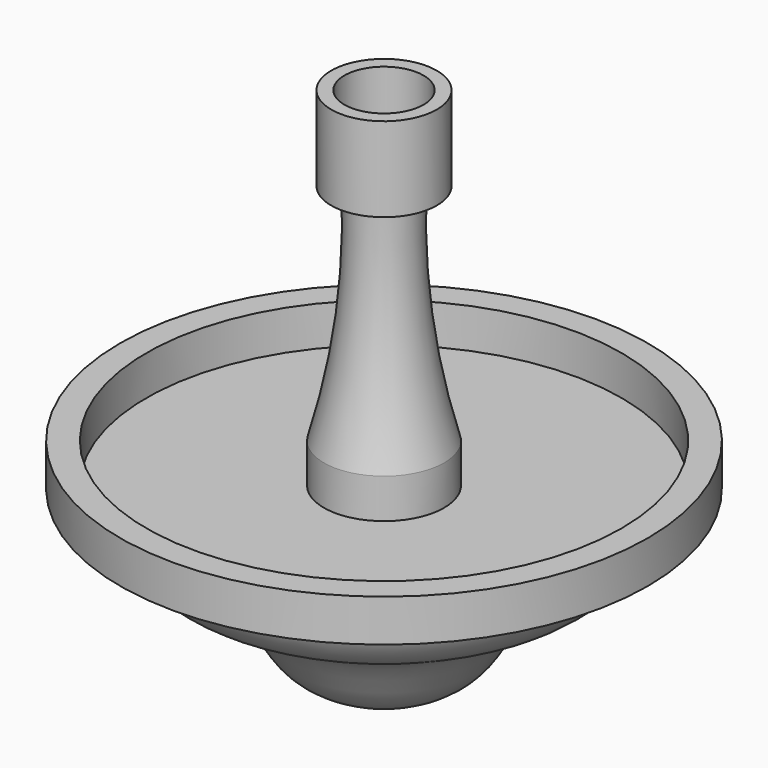
from build123d import *

# Parameters (mm, degrees)
F2_R     = 4.7625
F3_DEPTH = 9.525
F4_R     = 28.575
F4_R_2   = 7.2307717055
F5_DEPTH = 4.7625
F7_R     = 1.5748
F8_DEPTH = 12.7


with BuildPart() as f1:
    # F0 (on Front) → F1 (revolve)
    with BuildSketch(Plane.XZ):
        with BuildLine():
            Line((6.35, 30.6578), (0, 30.6578))
            Line((0, 30.6578), (0, -32.8422))
            add(Edge.make_bspline(
                [(26.6617717055, -11.54401084), (25.9700992248, -13.9315858764), (24.3509477459, -18.9185989779), (13.5455112354, -21.3365708537), (11.0916920313, -30.0749376041), (4.3225063677, -32.7455812088), (0, -32.8422)],
                knots=[0, 0, 0, 0, 0.2244865459, 0.4859344501, 0.7233610009, 1, 1, 1, 1], degree=3))
            Line((26.6617717055, -11.54401084), (31.7417717055, -11.54401084))
            Line((31.7417717055, -11.54401084), (31.7417717055, -6.46401084))
            Line((31.7417717055, -6.46401084), (7.2307717055, -6.46401084))
            ThreePointArc((7.2307717055, -6.46401084), (4.5421623899, 6.8879276474), (4.018467851, 20.4978))
            Line((4.018467851, 20.4978), (6.35, 20.4978))
            Line((6.35, 20.4978), (6.35, 30.6578))
        make_face()
    revolve(axis=Axis((0, 0, -1.0922), (0, 0, -1)))

    # F2 (on face) → F3 (cut)
    with BuildSketch(Plane.XY.offset(30.6578)):
        Circle(F2_R)
    extrude(amount=-F3_DEPTH, mode=Mode.SUBTRACT)

    # F4 (on face) → F5 (cut)
    with BuildSketch(Plane.XY.offset(-6.46401084)):
        Circle(F4_R)
        Circle(F4_R_2, mode=Mode.SUBTRACT)
    extrude(amount=-F5_DEPTH, mode=Mode.SUBTRACT)

    # F7 (on offset) → F8 (cut)
    with BuildSketch(Plane.XY.offset(-32.8422)):
        Circle(F7_R)
    extrude(amount=F8_DEPTH, mode=Mode.SUBTRACT)


solid = f1.part
